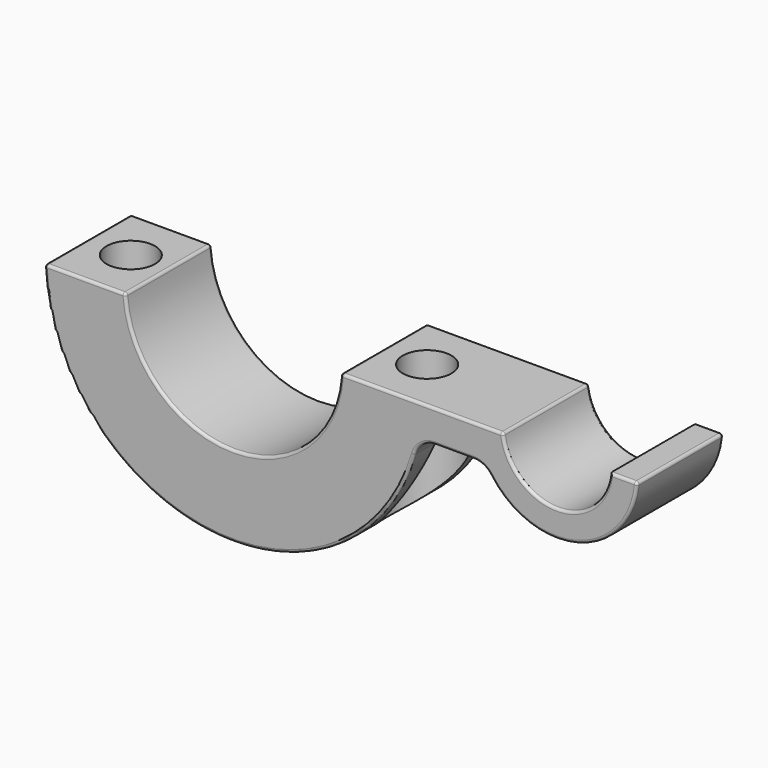
from build123d import *

# Parameters (mm, degrees)
F1_DEPTH = 10
F2_R     = 2.25
F3_DEPTH = 25
F4_R     = 0.25
F6_R     = 3.75
F7_DEPTH = 13


with BuildPart() as f1:
    # F0 (on Front) → F1 (new body)
    with BuildSketch(Plane.XZ):
        with BuildLine():
            ThreePointArc((9.987492, -0.5), (0, -10), (-9.987492, -0.5))
            Line((-9.987492, -0.5), (-17.492856, -0.5))
            ThreePointArc((-17.492856, -0.5), (-2.245658, -17.355317), (16.789488, -4.935897))
            ThreePointArc((16.789488, -4.935897), (17.509998, -3.898718), (18.708287, -3.5))
            Line((18.708287, -3.5), (22.254033, -3.5))
            ThreePointArc((22.254033, -3.5), (23.171696, -3.722953), (23.884763, -4.342105))
            ThreePointArc((23.884763, -4.342105), (32.039204, -7.217454), (37.483315, -0.5))
            Line((37.483315, -0.5), (34.974937, -0.5))
            ThreePointArc((34.974937, -0.5), (30, -5), (25.025063, -0.5))
            Line((25.025063, -0.5), (9.987492, -0.5))
        make_face()
    extrude(amount=-F1_DEPTH)

    # F2 (on face) → F3 (cut)
    with BuildSketch(Plane.XY.offset(-0.5)):
        with Locations((-13.492856, 5)):
            Circle(F2_R)
        with Locations((13.987492, 5)):
            Circle(F2_R)
    extrude(amount=-F3_DEPTH, mode=Mode.SUBTRACT)

    # F4
    f4_edges = [f1.edges().sort_by_distance(p)[0] for p in [
        (0, 0, -10),
        (-13.740174, 0, -0.5),
        (-2.245658, 0, -17.355317),
        (17.509998, 0, -3.898718),
        (20.48116, 0, -3.5),
        (23.171696, 0, -3.722953),
        (30, 0, -5),
        (17.506277, 0, -0.5),
        (25.025063, 5, -0.5),
        (-9.987492, 5, -0.5),
        (37.483315, 5, -0.5),
        (36.229126, 0, -0.5),
        (32.039204, 0, -7.217454),
        (32.039204, 10, -7.217454),
        (-13.740174, 10, -0.5),
        (-2.245658, 10, -17.355317),
        (0, 10, -10),
        (17.506277, 10, -0.5),
        (30, 10, -5),
        (36.229126, 10, -0.5),
        (-17.492856, 5, -0.5),
        (9.987492, 5, -0.5),
    ]]
    fillet(f4_edges, radius=F4_R)

    # F6 (on offset) → F7 (cut)
    with BuildSketch(Plane.XY.offset(-17.5)):
        with Locations((-13.483452, 5)):
            Circle(F6_R)
        with Locations((14.016548, 5)):
            Circle(F6_R)
    extrude(amount=F7_DEPTH, mode=Mode.SUBTRACT)


solid = f1.part
